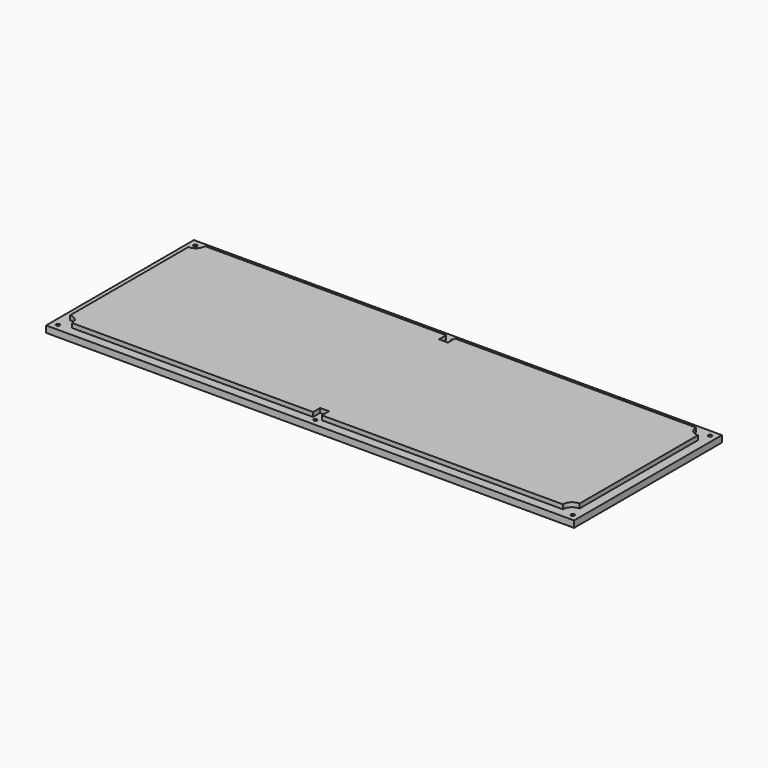
from build123d import *

# Parameters (mm, degrees)
F0_W            = 304.8
F0_H            = 106.68
F1_DEPTH        = 3.81
F2_W            = 294.132
F2_H            = 96.012
F3_DEPTH        = 2.54
F4_W            = 5.334
F4_H            = 5.334
F4_W_2          = 5.08
F4_H_2          = 5.08
F5_DEPTH        = 25.4
F6_R            = 5.08
F7_DEPTH        = 27.94
F9_DEPTH        = 27.94
F10_D           = 2.032
F10_DEPTH       = 12.7
F10_CSINK_D     = 3.81
F10_CSINK_ANGLE = 90
F10_TIP         = 0.6104743889


with BuildPart() as f1:
    # F0 (on Top) → F1 (new body)
    with BuildSketch(Plane.XY):
        with Locations((152.4, -53.34)):
            Rectangle(F0_W, F0_H)
    extrude(amount=F1_DEPTH)

    # F2 (on face) → F3 (join)
    with BuildSketch(Plane.XY.offset(3.81)):
        with Locations((152.4, -53.34)):
            Rectangle(F2_W, F2_H)
    extrude(amount=F3_DEPTH)

    # F4 (on face) → F5 (join)
    with BuildSketch(Plane.XY.offset(6.35)):
        with Locations((8.001, -8.001)):
            Rectangle(F4_W, F4_H)
        with Locations((8.001, -98.679)):
            Rectangle(F4_W, F4_H)
        with Locations((296.799, -8.001)):
            Rectangle(F4_W, F4_H)
        with Locations((296.799, -98.679)):
            Rectangle(F4_W, F4_H)
        with Locations((152.4, -7.874)):
            Rectangle(F4_W_2, F4_H_2)
        with Locations((152.4, -98.806)):
            Rectangle(F4_W_2, F4_H_2)
    extrude(amount=F5_DEPTH)

    # F6
    f6_edges = [f1.edges().sort_by_distance(p)[0] for p in [
        (294.132, -96.012, 19.05),
        (294.132, -10.668, 19.05),
        (10.668, -10.668, 19.05),
        (10.668, -96.012, 19.05),
    ]]
    fillet(f6_edges, radius=F6_R)

    # F7 (cut): faces of the model
    f7_faces = [f1.faces().sort_by_distance(p)[0] for p in [
        (7.6306507319, -7.6306507319, 31.75),
        (7.6306507319, -99.0493492681, 31.75),
        (297.1693492681, -7.6306507319, 31.75),
        (297.1693492681, -99.0493492681, 31.75),
    ]]
    extrude(f7_faces, amount=-F7_DEPTH, mode=Mode.SUBTRACT)

    # F9 (cut): faces of the model
    f9_faces = [f1.faces().sort_by_distance(p)[0] for p in [
        (152.4, -7.874, 31.75),
        (152.4, -98.806, 31.75),
    ]]
    extrude(f9_faces, amount=-F9_DEPTH, mode=Mode.SUBTRACT)

    # F10
    with Locations(Plane(origin=(0, 0, 0), x_dir=(1, 0, 0), z_dir=(0, 0, -1))):
        with Locations((3.81, 102.87), (3.81, 3.81), (300.99, 102.87), (300.99, 3.81), (152.4, 3.81), (152.4, 102.87)):
            CounterSinkHole(F10_D / 2, F10_CSINK_D / 2, depth=F10_DEPTH, counter_sink_angle=F10_CSINK_ANGLE)
            with Locations((0, 0, -(F10_DEPTH + F10_TIP / 2))):  # 118° drill point
                Cone(0, F10_D / 2, F10_TIP, mode=Mode.SUBTRACT)


solid = f1.part
